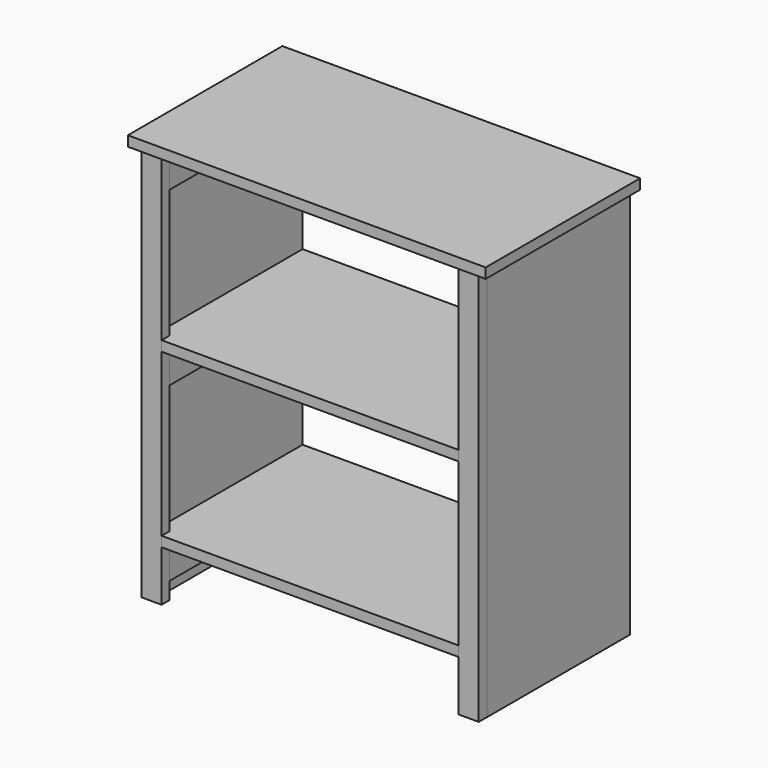
from build123d import *

# Parameters (mm, degrees)
F0_W      = 19.05
F0_H      = 63.5
F1_DEPTH  = 742.95
F2_W      = 19.05
F2_H      = 63.5
F2_W_2    = 673.1
F2_H_2    = 179.07
F3_DEPTH  = 19.05
F4_W      = 63.5
F4_H      = 63.5
F4_W_2    = 273.05
F5_DEPTH  = 19.05
F8_W      = 19.05
F8_H      = 336.55
F8_W_2    = 558.8
F8_H_2    = 19.05
F9_DEPTH  = 19.05
F10_W     = 19.05
F10_H     = 336.55
F10_W_2   = 558.8
F10_H_2   = 19.05
F11_DEPTH = 19.05
F16_W     = 336.55
F16_H     = 679.45
F16_H_2   = 63.5
F17_DEPTH = 19.05
F20_W     = 38.1
F20_H     = 742.95
F21_DEPTH = 19.05


with BuildPart() as f1:
    # F0 (on Top) → F1 (new body)
    with BuildSketch(Plane.XY):
        with Locations((-50.0554830029, 49.2678843021)):
            Rectangle(F0_W, F0_H)
    extrude(amount=F1_DEPTH)


with BuildPart() as f1b:
    # F0 (on Top) → F1, piece 2 (new body)
    with BuildSketch(Plane.XY):
        with Locations((-50.0554830029, -223.7821156979)):
            Rectangle(F0_W, F0_H)
    extrude(amount=F1_DEPTH)


with BuildPart() as f1c:
    # F0 (on Top) → F1, piece 3 (new body)
    with BuildSketch(Plane.XY):
        with Locations((565.8945169971, -223.7821156979)):
            Rectangle(F0_W, F0_H)
    extrude(amount=F1_DEPTH)


with BuildPart() as f1d:
    # F0 (on Top) → F1, piece 4 (new body)
    with BuildSketch(Plane.XY):
        with Locations((565.8945169971, 49.2678843021)):
            Rectangle(F0_W, F0_H)
    extrude(amount=F1_DEPTH)


with BuildPart() as f3:
    # F2 (on face) → F3 (new body)
    with BuildSketch(Plane.XY.offset(742.95)):
        with Locations((565.8945169971, 49.2678843021)):
            Rectangle(F2_W, F2_H)
        Polygon((594.4695169971, -103.1321156979), (594.4695169971, 81.0178843021), (575.4195169971, 81.0178843021), (575.4195169971, 17.5178843021), (556.3695169971, 17.5178843021), (556.3695169971, 81.0178843021), (-78.6304830029, 81.0178843021), (-78.6304830029, -103.1321156979), align=None)
        with Locations((257.9195169971, -192.6671156979)):
            Rectangle(F2_W_2, F2_H_2)
    extrude(amount=F3_DEPTH)


with BuildPart() as f5:
    # F4 (on face) → F5 (new body)
    with BuildSketch(Plane.YZ.offset(-40.5304830029)):
        with Locations((-223.7821156979, 711.2)):
            Rectangle(F4_W, F4_H)
        with Locations((-55.5071156979, 711.2)):
            Rectangle(F4_W_2, F4_H)
    extrude(amount=F5_DEPTH)


with BuildPart() as f5b:
    # F4 (on face) → F5, piece 2 (new body)
    with BuildSketch(Plane.YZ.offset(-40.5304830029)):
        with Locations((-223.7821156979, 387.35)):
            Rectangle(F4_W, F4_H)
        with Locations((-55.5071156979, 387.35)):
            Rectangle(F4_W_2, F4_H)
    extrude(amount=F5_DEPTH)


with BuildPart() as f5c:
    # F4 (on face) → F5, piece 3 (new body)
    with BuildSketch(Plane.YZ.offset(-40.5304830029)):
        with Locations((-223.7821156979, 63.5)):
            Rectangle(F4_W, F4_H)
        with Locations((-55.5071156979, 63.5)):
            Rectangle(F4_W_2, F4_H)
    extrude(amount=F5_DEPTH)


with BuildPart() as f7_1:
    # F7: instance of F5c
    add(f5c.part.mirror(Plane(origin=(257.9195169971, 49.2678843021, 371.475), x_dir=(0, -1, 0), z_dir=(-1, 0, 0))))


with BuildPart() as f7_2:
    # F7: instance of F5b
    add(f5b.part.mirror(Plane(origin=(257.9195169971, 49.2678843021, 371.475), x_dir=(0, -1, 0), z_dir=(-1, 0, 0))))


with BuildPart() as f7_3:
    # F7: instance of F5
    add(f5.part.mirror(Plane(origin=(257.9195169971, 49.2678843021, 371.475), x_dir=(0, -1, 0), z_dir=(-1, 0, 0))))


with BuildPart() as f9:
    # F8 (on face) → F9 (new body)
    with BuildSketch(Plane.XY.offset(95.25)):
        Polygon((556.3695169971, 81.0178843021), (-21.4804830029, 81.0178843021), (-21.4804830029, -255.5321156979), (537.3195169971, -255.5321156979), (556.3695169971, -255.5321156979), align=None)
        with Locations((-31.0054830029, -87.2571156979)):
            Rectangle(F8_W, F8_H)
        with Locations((257.9195169971, -265.0571156979)):
            Rectangle(F8_W_2, F8_H_2)
    extrude(amount=F9_DEPTH)


with BuildPart() as f11:
    # F10 (on face) → F11 (new body)
    with BuildSketch(Plane.XY.offset(419.1)):
        Polygon((556.3695169971, 81.0178843021), (-21.4804830029, 81.0178843021), (-21.4804830029, -255.5321156979), (537.3195169971, -255.5321156979), (556.3695169971, -255.5321156979), align=None)
        with Locations((-31.0054830029, -87.2571156979)):
            Rectangle(F10_W, F10_H)
        with Locations((257.9195169971, -265.0571156979)):
            Rectangle(F10_W_2, F10_H_2)
    extrude(amount=F11_DEPTH)


with BuildPart() as f17:
    # F16 (on face) → F17 (new body)
    with BuildSketch(Plane.YZ.offset(556.3695169971)):
        with Locations((-87.2571156979, 339.725)):
            Rectangle(F16_W, F16_H)
        with Locations((-87.2571156979, 711.2)):
            Rectangle(F16_W, F16_H_2)
    extrude(amount=F17_DEPTH)


with BuildPart() as f18_1:
    # F18: instance of F17
    add(f17.part.mirror(Plane(origin=(257.9195169971, 49.2678843021, 371.475), x_dir=(0, -1, 0), z_dir=(-1, 0, 0))))


with BuildPart() as f21:
    # F20 (on face) → F21 (new body)
    with BuildSketch(Plane.XZ.offset(255.5321156979)):
        with Locations((-40.36571032, 371.475)):
            Rectangle(F20_W, F20_H)
        with Locations((-40.36571032, 371.475)):
            Rectangle(F20_W, F20_H)
    extrude(amount=F21_DEPTH)


with BuildPart() as f22_1:
    # F22: instance of F21
    add(f21.part.mirror(Plane(origin=(257.9195169971, 49.2678843021, 371.475), x_dir=(0, -1, 0), z_dir=(-1, 0, 0))))


solid = Compound([f3.part, f5.part, f5b.part, f5c.part, f7_1.part, f7_2.part, f7_3.part, f9.part, f11.part, f17.part, f18_1.part, f21.part, f22_1.part])
